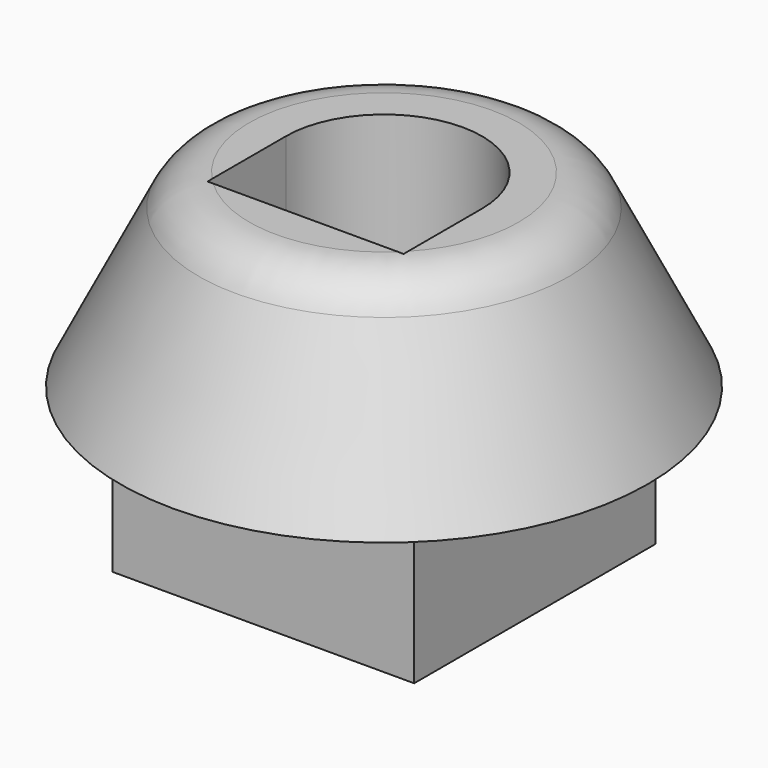
from build123d import *

# Parameters (mm, degrees)
FILLET001_R       = 3
BOX005_W          = 10.4
BOX005_H          = 5.2
BOX005_DEPTH      = 5.2
BOX006_W          = 16
BOX006_H          = 16
BOX006_DEPTH      = 8
CYLINDER009_R     = 5.2
CYLINDER009_DEPTH = 10.2
CYLINDER010_R     = 2
CYLINDER010_DEPTH = 8


with BuildPart() as part:
    # Cone → Cone (revolve)
    with BuildSketch(Plane.XZ):
        Polygon((0, 0), (14, 0), (9, 10), (0, 10), align=None)
    revolve(axis=Axis((0, 0, 0), (0, 0, 1)))

    # Fillet001
    fillet001_edges = [part.edges().sort_by_distance(p)[0] for p in [
        (-9, 0, 10),
    ]]
    fillet(fillet001_edges, radius=FILLET001_R)

    # Box005 → Box005 (cut)
    with BuildSketch(Plane(origin=(-5.2, -5.2, 4.8), x_dir=(1, 0, 0), z_dir=(0, 0, 1))):
        with Locations((5.2, 2.6)):
            Rectangle(BOX005_W, BOX005_H)
    extrude(amount=BOX005_DEPTH, mode=Mode.SUBTRACT)

    # Box006 → Box006 (join)
    with BuildSketch(Plane(origin=(-8, -8, -8), x_dir=(1, 0, 0), z_dir=(0, 0, 1))):
        with Locations((8, 8)):
            Rectangle(BOX006_W, BOX006_H)
    extrude(amount=BOX006_DEPTH)

    # Cylinder009 → Cylinder009 (cut)
    with BuildSketch(Plane.XY.offset(-0.2)):
        Circle(CYLINDER009_R)
    extrude(amount=CYLINDER009_DEPTH, mode=Mode.SUBTRACT)

    # Cylinder010 → Cylinder010 (cut)
    with BuildSketch(Plane.XY.offset(-8)):
        Circle(CYLINDER010_R)
    extrude(amount=CYLINDER010_DEPTH, mode=Mode.SUBTRACT)


with BuildPart() as part_1:
    # Body005 placement: moved
    add(part.part.moved(Location((1, -43, -192))))


solid = part_1.part
